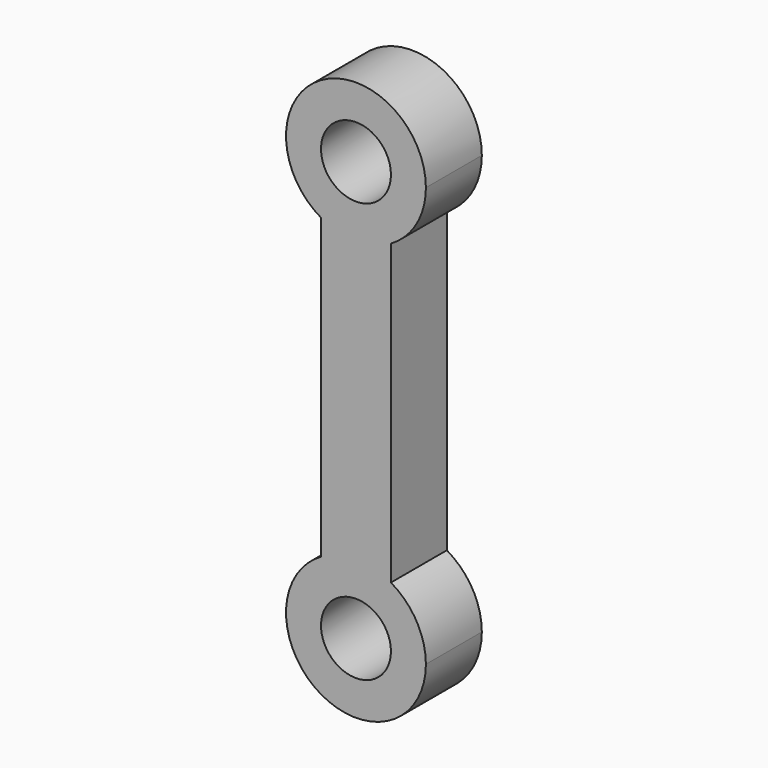
from build123d import *

# Parameters (mm, degrees)
F1_DEPTH = 5


with BuildPart() as f1:
    # F0 (on Front) → F1 (new body)
    with BuildSketch(Plane.XZ):
        with BuildLine():
            ThreePointArc((-2.5, 13.7409384237), (0, 16.2409384237), (2.5, 13.7409384237))
            ThreePointArc((2.5, 13.7409384237), (2.4999509214, 13.7252734736), (2.4998036875, 13.7096091386))
            Line((2.4998036875, 13.7096091386), (2.4998036875, 9.4106980696))
            ThreePointArc((2.4998036875, 9.4106980696), (4.330070348, 11.2408402694), (5, 13.7409384237))
            ThreePointArc((5, 13.7409384237), (-2.5, 18.0710654426), (-2.5, 9.4108114048))
            Line((-2.5, 9.4108114048), (-2.5, 13.7409384237))
        make_face()
        with BuildLine():
            ThreePointArc((2.4998036875, 13.7096091386), (-0.0156649501, 11.2409875023), (-2.5, 13.7409384237))
            Line((-2.5, 13.7409384237), (-2.5, 9.4108114048))
            ThreePointArc((-2.5, 9.4108114048), (-0.0001133396, 8.740938425), (2.4998036875, 9.4106980696))
            Line((2.4998036875, 9.4106980696), (2.4998036875, 13.7096091386))
        make_face()
        with BuildLine():
            ThreePointArc((2.4998036875, 9.4106980696), (-0.0001133396, 8.740938425), (-2.5, 9.4108114048))
            Line((-2.5, 9.4108114048), (-2.5, -11.9289345574))
            ThreePointArc((-2.5, -11.9289345574), (-0.0001133396, -11.2590615776), (2.4998036875, -11.9288212222))
            Line((2.4998036875, -11.9288212222), (2.4998036875, 9.4106980696))
        make_face()
        with BuildLine():
            ThreePointArc((2.4998036875, -11.9288212222), (-0.0001133396, -11.2590615776), (-2.5, -11.9289345574))
            Line((-2.5, -11.9289345574), (-2.5, -16.2590615763))
            ThreePointArc((-2.5, -16.2590615763), (-0.0156649501, -13.7591106549), (2.4998036875, -16.2277322912))
            Line((2.4998036875, -16.2277322912), (2.4998036875, -11.9288212222))
        make_face()
        with BuildLine():
            Line((-2.5, -16.2590615763), (-2.5, -11.9289345574))
            ThreePointArc((-2.5, -11.9289345574), (-2.5, -20.5891885952), (5, -16.2590615763))
            ThreePointArc((5, -16.2590615763), (4.330070348, -13.758963422), (2.4998036875, -11.9288212222))
            Line((2.4998036875, -11.9288212222), (2.4998036875, -16.2277322912))
            ThreePointArc((2.4998036875, -16.2277322912), (2.4999509214, -16.2433966262), (2.5, -16.2590615763))
            ThreePointArc((2.5, -16.2590615763), (0, -18.7590615763), (-2.5, -16.2590615763))
        make_face()
    extrude(amount=F1_DEPTH)


solid = f1.part
